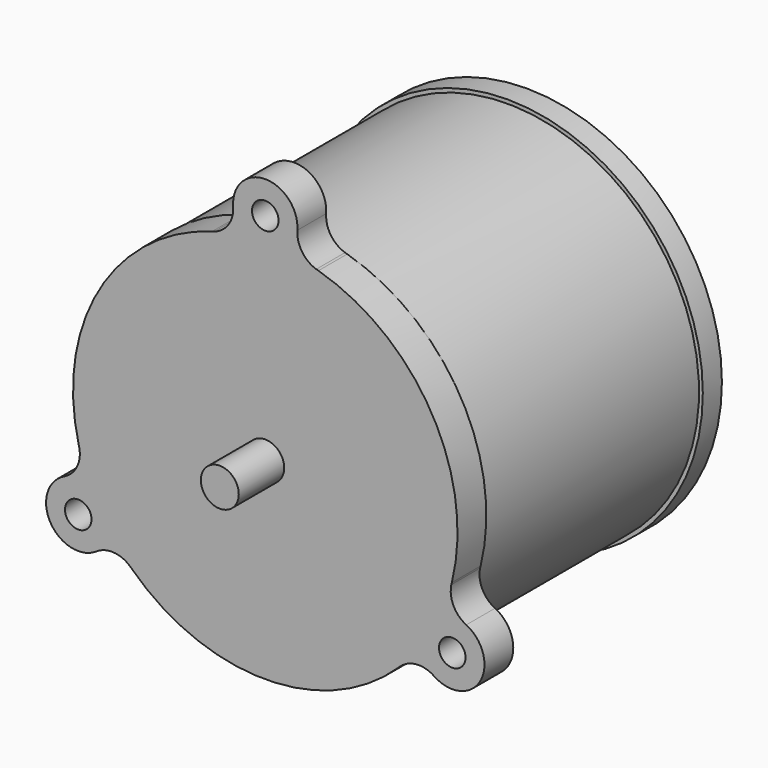
from build123d import *

# Parameters (mm, degrees)
F0_R      = 3.5
F2_DEPTH  = 9.5
F1_R      = 5
F3_DEPTH  = 15
F4_R      = 50.5
F5_DEPTH  = 70.5
F6_R      = 51.5
F7_DEPTH  = 6.3
F8_R      = 44
F9_DEPTH  = 9.4
F10_R     = 18
F11_DEPTH = 12.1
F15_SIZE  = 5


with BuildPart() as f2:
    # F0 (on Front) → F2 (new body)
    with BuildSketch(Plane.XZ):
        with BuildLine():
            ThreePointArc((-14.031232, 48.771785), (-13.742652, 48.846608), (-13.457391, 48.933231))
            ThreePointArc((-13.457391, 48.933231), (-13.744549, 48.853351), (-14.031232, 48.771785))
        make_face()
        with BuildLine():
            ThreePointArc((-8.47634, 56.366228), (-9.68343, 51.789665), (-13.457391, 48.933231))
            ThreePointArc((-13.457391, 48.933231), (-13.742652, 48.846608), (-14.031232, 48.771785))
            ThreePointArc((-14.031232, 48.771785), (-43.950789, 25.375), (-49.253221, -12.234489))
            ThreePointArc((-49.253221, -12.234489), (-49.173729, -12.521818), (-49.106117, -12.812173))
            ThreePointArc((-49.106117, -12.812173), (-49.69288, -17.508736), (-53.052755, -20.842389))
            ThreePointArc((-53.052755, -20.842389), (-56.724664, -32.75), (-44.576416, -35.523839))
            ThreePointArc((-44.576416, -35.523839), (-40.009451, -34.280929), (-35.648726, -36.121058))
            ThreePointArc((-35.648726, -36.121058), (-35.431077, -36.324789), (-35.221989, -36.537296))
            ThreePointArc((-35.221989, -36.537296), (0, -50.75), (35.221989, -36.537296))
            ThreePointArc((35.221989, -36.537296), (35.431077, -36.324789), (35.648726, -36.121058))
            ThreePointArc((35.648726, -36.121058), (40.009451, -34.280929), (44.576416, -35.523839))
            ThreePointArc((44.576416, -35.523839), (56.724664, -32.75), (53.052755, -20.842389))
            ThreePointArc((53.052755, -20.842389), (49.69288, -17.508736), (49.106117, -12.812173))
            ThreePointArc((49.106117, -12.812173), (49.173729, -12.521818), (49.253221, -12.234489))
            ThreePointArc((49.253221, -12.234489), (43.950789, 25.375), (14.031232, 48.771785))
            ThreePointArc((14.031232, 48.771785), (13.742652, 48.846608), (13.457391, 48.933231))
            ThreePointArc((13.457391, 48.933231), (9.68343, 51.789665), (8.47634, 56.366228))
            ThreePointArc((8.47634, 56.366228), (0, 65.5), (-8.47634, 56.366228))
        make_face()
        with Locations((-49.363448, -28.5)):
            Circle(F0_R, mode=Mode.SUBTRACT)
        with Locations((49.363448, -28.5)):
            Circle(F0_R, mode=Mode.SUBTRACT)
        with Locations((0, 57)):
            Circle(F0_R, mode=Mode.SUBTRACT)
        with BuildLine():
            ThreePointArc((-49.106117, -12.812173), (-49.173729, -12.521818), (-49.253221, -12.234489))
            ThreePointArc((-49.253221, -12.234489), (-49.180517, -12.523547), (-49.106117, -12.812173))
        make_face()
        with BuildLine():
            ThreePointArc((14.031232, 48.771785), (13.744549, 48.853351), (13.457391, 48.933231))
            ThreePointArc((13.457391, 48.933231), (13.742652, 48.846608), (14.031232, 48.771785))
        make_face()
        with BuildLine():
            ThreePointArc((49.106117, -12.812173), (49.180517, -12.523547), (49.253221, -12.234489))
            ThreePointArc((49.253221, -12.234489), (49.173729, -12.521818), (49.106117, -12.812173))
        make_face()
        with BuildLine():
            ThreePointArc((-35.221989, -36.537296), (-35.431077, -36.324789), (-35.648726, -36.121058))
            ThreePointArc((-35.648726, -36.121058), (-35.435968, -36.329804), (-35.221989, -36.537296))
        make_face()
        with BuildLine():
            ThreePointArc((35.648726, -36.121058), (35.431077, -36.324789), (35.221989, -36.537296))
            ThreePointArc((35.221989, -36.537296), (35.435968, -36.329804), (35.648726, -36.121058))
        make_face()
    extrude(amount=-F2_DEPTH)

    # F1 (on face) → F3 (join)
    with BuildSketch(Plane.XZ):
        Circle(F1_R)
    extrude(amount=F3_DEPTH)

    # F4 (on face) → F5 (join)
    with BuildSketch(Plane(origin=(0, 9.5, 0), x_dir=(-1, 0, 0), z_dir=(0, 1, 0))):
        Circle(F4_R)
    extrude(amount=F5_DEPTH)

    # F6 (on face) → F7 (join)
    with BuildSketch(Plane(origin=(0, 80, 0), x_dir=(-1, 0, 0), z_dir=(0, 1, 0))):
        Circle(F6_R)
    extrude(amount=F7_DEPTH)

    # F8 (on face) → F9 (join)
    with BuildSketch(Plane(origin=(0, 86.3, 0), x_dir=(-1, 0, 0), z_dir=(0, 1, 0))):
        Circle(F8_R)
    extrude(amount=F9_DEPTH)

    # F10 (on face) → F11 (join)
    with BuildSketch(Plane(origin=(0, 95.7, 0), x_dir=(-1, 0, 0), z_dir=(0, 1, 0))):
        Circle(F10_R)
    extrude(amount=F11_DEPTH)

    # F15
    f15_edges = [f2.edges().sort_by_distance(p)[0] for p in [
        (44, 95.7, 0),
    ]]
    chamfer(f15_edges, length=F15_SIZE)


solid = f2.part
